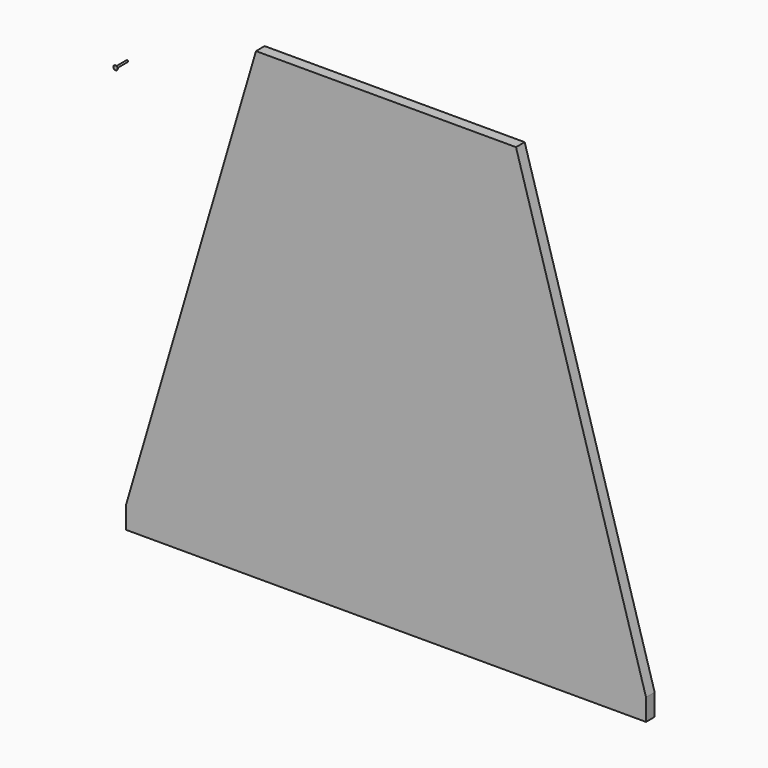
from build123d import *

# Parameters (mm, degrees)
F3_DEPTH  = 25
F2_R      = 2
F4_DEPTH  = 30
F4_FACE_R = 2
F5_DEPTH  = 3
F5_TAPER  = -45
F6_DEPTH  = 0.5


with BuildPart() as f3:
    # F2 (on Front) → F3 (new body)
    with BuildSketch(Plane.XZ):
        Polygon((-600, 0), (600, 0), (600, 50), (300, 1070), (-300, 1070), (-600, 50), align=None)
    extrude(amount=-F3_DEPTH)


with BuildPart() as f4:
    # F2 (on Front) → F4 (new body)
    with BuildSketch(Plane.XZ):
        with Locations((-597.3405838013, 952.8526067734)):
            Circle(F2_R)
    extrude(amount=F4_DEPTH)

    # F4_face (on face) → F5 (join)
    with BuildSketch(Plane(origin=(-597.3405838013, -30, 952.8526067734), x_dir=(1, 0, 0), z_dir=(0, -1, 0))):
        Circle(F4_FACE_R)
    extrude(amount=F5_DEPTH, taper=F5_TAPER)

    # F6 (add): a face of the model
    f6_faces = [f4.faces().sort_by_distance(p)[0] for p in [
        (-597.3405838013, -33, 952.8526067734),
    ]]
    extrude(f6_faces, amount=F6_DEPTH)


solid = Compound([f3.part, f4.part])
